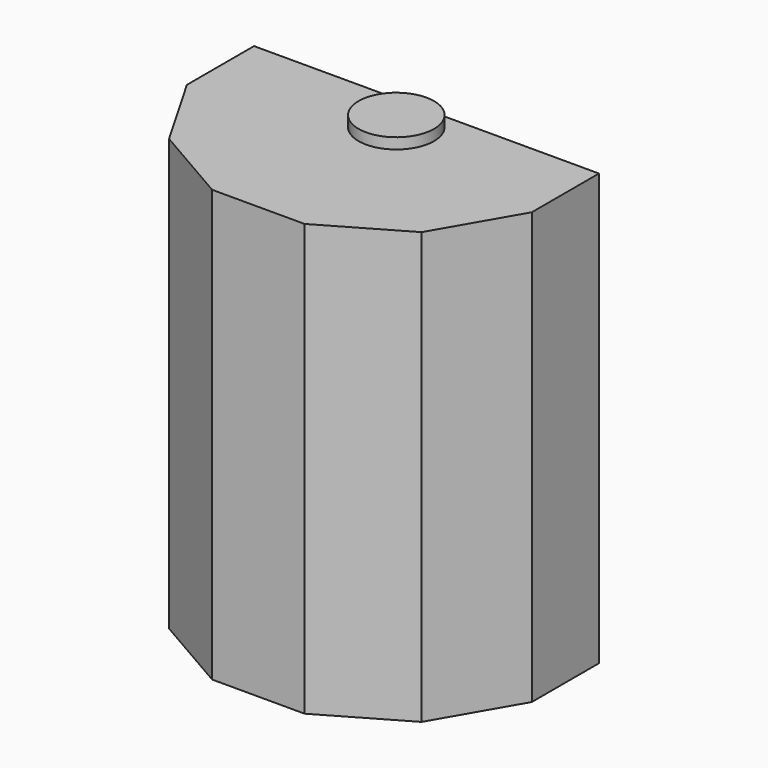
from build123d import *

# Parameters (mm, degrees)
F1_DEPTH = 254
F2_R     = 22.225
F3_DEPTH = 6.35


with BuildPart() as f1:
    # F0 (on Top) → F1 (new body)
    with BuildSketch(Plane.XY):
        Polygon((101.6, -27.223638), (101.6, 22.225), (0, 22.225), (-101.6, 22.225), (-101.6, -27.223638), (-74.376362, -74.376362), (-27.223638, -101.6), (27.223638, -101.6), (74.376362, -74.376362), align=None)
    extrude(amount=F1_DEPTH)

    # F2 (on face) → F3 (join)
    with BuildSketch(Plane.XY.offset(254)):
        Circle(F2_R)
    extrude(amount=F3_DEPTH)


solid = f1.part
